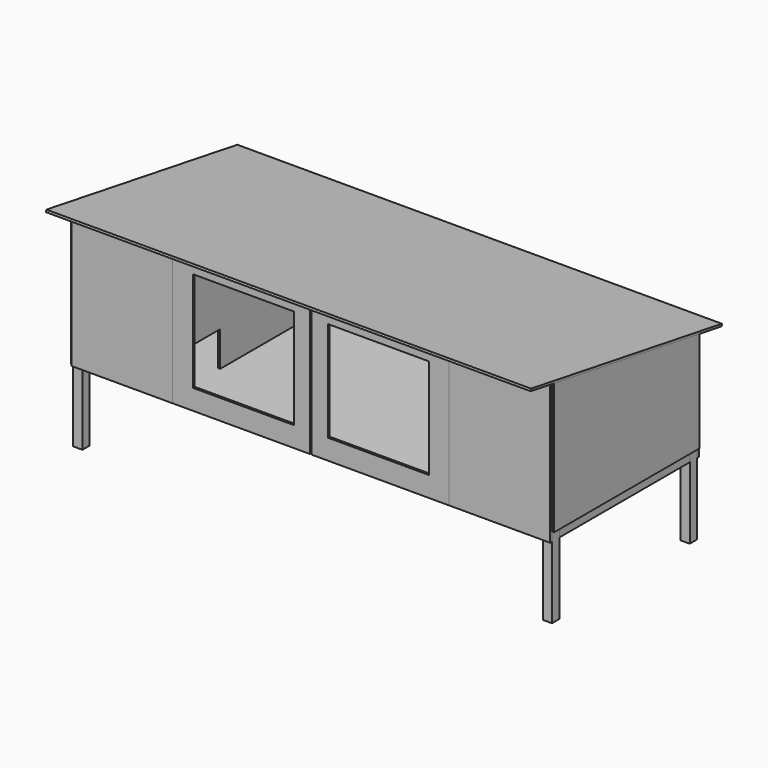
from build123d import *

# Parameters (mm, degrees)
F1_DEPTH       = 11
F3_DEPTH       = 11
F5_DEPTH       = 11
F6_W           = 2368
F6_H           = 545
F7_DEPTH       = 11
F8_W           = 2397
F8_H           = 1197
F9_DEPTH       = 11
F10_W          = 500
F10_H          = 695
F11_DEPTH      = 11
F12_W          = 45
F12_H          = 45
F13_DEPTH      = 640
F13_DEPTH_BACK = 400
F14_W          = 680
F14_H          = 695
F14_W_2        = 500
F14_H_2        = 495
F15_DEPTH      = 11
F16_W          = 45
F16_H          = 45
F17_DEPTH      = 490
F17_DEPTH_BACK = 400
F18_W          = 45
F18_H          = 45
F19_DEPTH      = 807
F20_W          = 45
F20_H          = 45
F21_DEPTH      = 807
F22_W          = 45
F22_H          = 45
F23_DEPTH      = 2278
F24_W          = 45
F24_H          = 45
F25_DEPTH      = 2278
F26_W          = 45
F26_H          = 45
F27_DEPTH      = 807
F28_W          = 45
F28_H          = 45
F29_DEPTH      = 584
F31_DEPTH      = 11


with BuildPart() as f1:
    # F0 (on Top) → F1 (new body)
    with BuildSketch(Plane.XY):
        Polygon((45, 45), (45, 0), (2323, 0), (2323, 45), (2368, 45), (2368, 852), (2323, 852), (2323, 897), (45, 897), (45, 852), (0, 852), (0, 45), align=None)
    extrude(amount=F1_DEPTH)


with BuildPart() as f3:
    # F2 (on Right) → F3 (new body)
    with BuildSketch(Plane.YZ):
        Polygon((897, -45), (897, 0), (897, 500), (0, 650), (0, 0), (0, -45), align=None)
    extrude(amount=-F3_DEPTH)


with BuildPart() as f5:
    # F4 (on face) → F5 (new body)
    with BuildSketch(Plane.YZ.offset(2368)):
        Polygon((0, 650), (0, 0), (897, 0), (897, 500), align=None)
    extrude(amount=F5_DEPTH)


with BuildPart() as f7:
    # F6 (on face) → F7 (new body)
    with BuildSketch(Plane(origin=(0, 897, 0), x_dir=(-1, 0, 0), z_dir=(0, 1, 0))):
        with Locations((-1184, 227.5)):
            Rectangle(F6_W, F6_H)
    extrude(amount=F7_DEPTH)


with BuildPart() as f9:
    # F8 (on face) → F9 (new body)
    with BuildSketch(Plane(origin=(0, 105.738784, 632.317929), x_dir=(1, 0, 0), z_dir=(0, 0.164934, 0.986305))):
        with Locations((1182.5, 341.292976)):
            Rectangle(F8_W, F8_H)
    extrude(amount=F9_DEPTH)


with BuildPart() as f11:
    # F10 (on Front) → F11 (new body)
    with BuildSketch(Plane.XZ):
        with Locations((250, 302.5)):
            Rectangle(F10_W, F10_H)
        with Locations((2118, 302.5)):
            Rectangle(F10_W, F10_H)
    extrude(amount=F11_DEPTH)


with BuildPart() as f13:
    # F12 (on Top) → F13 (new body, two sides)
    with BuildSketch(Plane.XY) as f13_sk:
        with Locations((22.5, 22.5)):
            Rectangle(F12_W, F12_H)
        with Locations((2345.5, 22.5)):
            Rectangle(F12_W, F12_H)
    extrude(amount=F13_DEPTH)
    extrude(f13_sk.sketch, amount=-F13_DEPTH_BACK)


with BuildPart() as f15:
    # F14 (on Front) → F15 (new body)
    with BuildSketch(Plane.XZ):
        with Locations((840, 302.5)):
            Rectangle(F14_W, F14_H)
        with Locations((850, 302.5)):
            Rectangle(F14_W_2, F14_H_2, mode=Mode.SUBTRACT)
        with Locations((1528, 302.5)):
            Rectangle(F14_W, F14_H)
        with Locations((1518, 302.5)):
            Rectangle(F14_W_2, F14_H_2, mode=Mode.SUBTRACT)
    extrude(amount=F15_DEPTH)


with BuildPart() as f17:
    # F16 (on Top) → F17 (new body, two sides)
    with BuildSketch(Plane.XY) as f17_sk:
        with Locations((22.5, 874.5)):
            Rectangle(F16_W, F16_H)
        with Locations((2345.5, 874.5)):
            Rectangle(F16_W, F16_H)
    extrude(amount=F17_DEPTH)
    extrude(f17_sk.sketch, amount=-F17_DEPTH_BACK)


with BuildPart() as f19:
    # F18 (on face) → F19 (new body, through all)
    with BuildSketch(Plane(origin=(0, 45, 0), x_dir=(-1, 0, 0), z_dir=(0, 1, 0))):
        with Locations((-22.5, -22.5)):
            Rectangle(F18_W, F18_H)
    extrude(amount=F19_DEPTH)


with BuildPart() as f21:
    # F20 (on face) → F21 (new body, through all)
    with BuildSketch(Plane(origin=(0, 45, 0), x_dir=(-1, 0, 0), z_dir=(0, 1, 0))):
        with Locations((-2345.5, -22.5)):
            Rectangle(F20_W, F20_H)
    extrude(amount=F21_DEPTH)


with BuildPart() as f23:
    # F22 (on face) → F23 (new body, through all)
    with BuildSketch(Plane.YZ.offset(45)):
        with Locations((22.5, -22.5)):
            Rectangle(F22_W, F22_H)
        with Locations((874.5, -22.5)):
            Rectangle(F22_W, F22_H)
    extrude(amount=F23_DEPTH)


with BuildPart() as f25:
    # F24 (on face) → F25 (new body, through all)
    with BuildSketch(Plane.YZ.offset(45)):
        with Locations((22.5, 617.5)):
            Rectangle(F24_W, F24_H)
        with Locations((874.5, 467.5)):
            Rectangle(F24_W, F24_H)
    extrude(amount=F25_DEPTH)


with BuildPart() as f27:
    # F26 (on face) → F27 (new body, through all)
    with BuildSketch(Plane.XZ.offset(-852)):
        with Locations((22.5, 467.5)):
            Rectangle(F26_W, F26_H)
        with Locations((2345.5, 467.5)):
            Rectangle(F26_W, F26_H)
    extrude(amount=F27_DEPTH)


with BuildPart() as f29:
    # F28 (on face) → F29 (new body, through all)
    with BuildSketch(Plane.XY.offset(11)):
        with Locations((1182.5, 22.5)):
            Rectangle(F28_W, F28_H)
        with Locations((1867.5, 22.5)):
            Rectangle(F28_W, F28_H)
        with Locations((497.5, 22.5)):
            Rectangle(F28_W, F28_H)
    extrude(amount=F29_DEPTH)


with BuildPart() as f31:
    # F30 (on face) → F31 (new body)
    with BuildSketch(Plane.YZ.offset(520)):
        Polygon((0, 595), (0, 11), (76.038614, 11), (76.038614, 184.025198), (244.586274, 184.025198), (244.586274, 11), (897, 11), (897, 437.627852), align=None)
    extrude(amount=F31_DEPTH)


solid = Compound([f1.part, f3.part, f5.part, f7.part, f9.part, f11.part, f13.part, f15.part, f17.part, f19.part, f21.part, f23.part, f25.part, f27.part, f29.part, f31.part])
